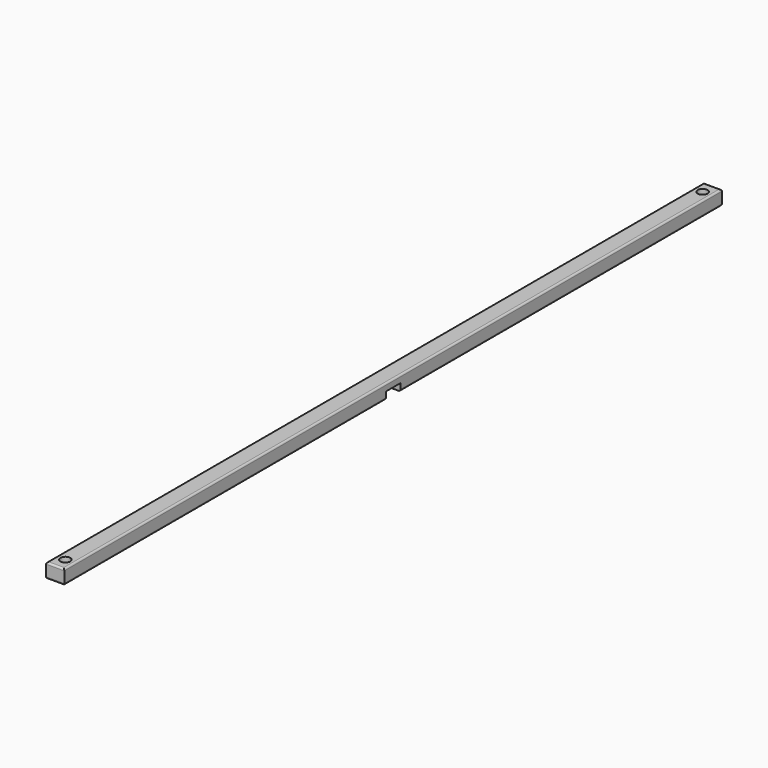
from build123d import *

# Parameters (mm, degrees)
F0_W     = 7.9375
F0_H     = 358.775
F0_R     = 2.15265
F1_DEPTH = 6.35
F2_W     = 7.9375
F2_H     = 3.175
F3_DEPTH = 7.9375
F4_R     = 0.762


with BuildPart() as f1:
    # F0 (on Top) → F1 (new body)
    with BuildSketch(Plane.XY):
        Rectangle(F0_W, F0_H)
        with Locations((0, -173.83125)):
            Circle(F0_R, mode=Mode.SUBTRACT)
        with Locations((0, 173.83125)):
            Circle(F0_R, mode=Mode.SUBTRACT)
    extrude(amount=F1_DEPTH)

    # F2 (on face) → F3 (cut, through all)
    with BuildSketch(Plane.YZ.offset(3.96875)):
        with Locations((0, 1.5875)):
            Rectangle(F2_W, F2_H)
    extrude(amount=-F3_DEPTH, mode=Mode.SUBTRACT)

    # F4
    f4_edges = [f1.edges().sort_by_distance(p)[0] for p in [
        (0, -179.3875, 0),
        (3.96875, -91.678125, 0),
        (3.96875, 91.678125, 0),
        (-3.96875, 91.678125, 0),
        (-3.96875, -91.678125, 0),
        (0, 179.3875, 0),
        (-3.96875, 0, 6.35),
        (0, -179.3875, 6.35),
        (3.96875, 0, 6.35),
        (0, 179.3875, 6.35),
    ]]
    fillet(f4_edges, radius=F4_R)


solid = f1.part
